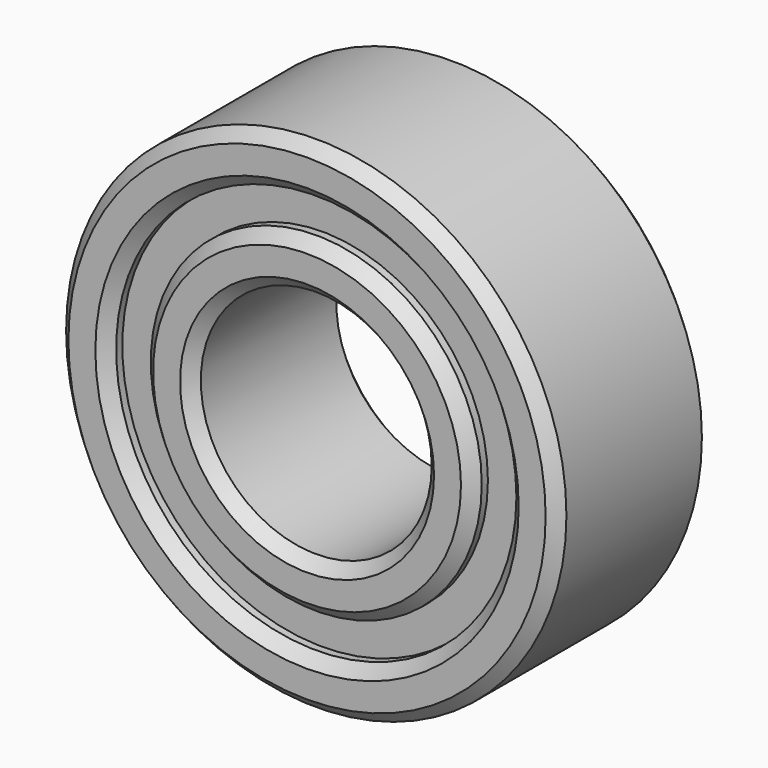
from build123d import *

# Parameters (mm, degrees)
F1_R     = 6.5
F1_R_2   = 5.2
F2_DEPTH = 2.5
F1_R_3   = 4.3
F1_R_4   = 3
F3_DEPTH = 2
F4_SIZE  = 0.3


with BuildPart() as f2:
    # F1 (on Front) → F2 (new body, symmetric)
    with BuildSketch(Plane.XZ):
        Circle(F1_R)
        Circle(F1_R_2, mode=Mode.SUBTRACT)
    extrude(amount=F2_DEPTH, both=True)



with BuildPart() as f2b:
    # F1 (on Front) → F2, piece 2 (new body, symmetric)
    with BuildSketch(Plane.XZ):
        Circle(F1_R_3)
        Circle(F1_R_4, mode=Mode.SUBTRACT)
    extrude(amount=F2_DEPTH, both=True)


with BuildPart() as f2_1:
    add(f2.part)

    add(f2b.part)  # F3 merges F2b
    # F1 (on Front) → F3 (join, symmetric)
    with BuildSketch(Plane.XZ):
        Circle(F1_R_2)
        Circle(F1_R_3, mode=Mode.SUBTRACT)
    extrude(amount=F3_DEPTH, both=True)

    # F4
    f4_edges = [f2_1.edges().sort_by_distance(p)[0] for p in [
        (-6.5, -2.5, 0),
        (-5.2, -2.5, 0),
        (-4.3, -2.5, 0),
        (-3, -2.5, 0),
        (-6.5, 2.5, 0),
        (-5.2, 2.5, 0),
        (-4.3, 2.5, 0),
        (-3, 2.5, 0),
    ]]
    chamfer(f4_edges, length=F4_SIZE)


solid = f2_1.part
